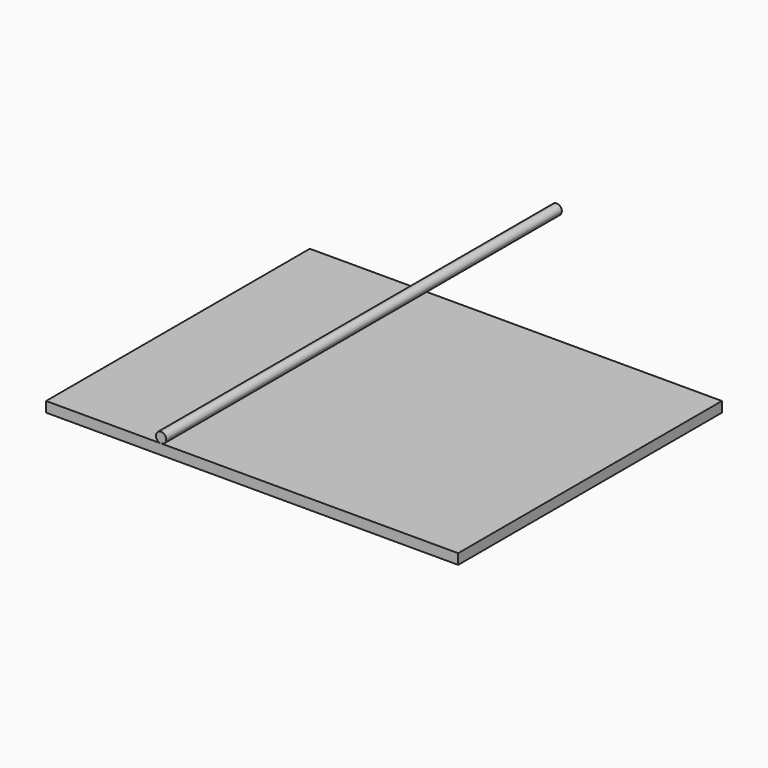
from build123d import *

# Parameters (mm, degrees)
F0_W     = 127
F0_H     = 101.6
F1_DEPTH = 3.175
F3_DEPTH = 152.4


with BuildPart() as f1:
    # F0 (on Top) → F1 (new body)
    with BuildSketch(Plane.XY):
        with Locations((-63.5, 50.8)):
            Rectangle(F0_W, F0_H)
    extrude(amount=F1_DEPTH)


with BuildPart() as f3:
    # F2 (on face) → F3 (new body)
    with BuildSketch(Plane.XZ):
        with BuildLine():
            ThreePointArc((-91.560364, 3.175), (-90.437832, 3.639968), (-89.972864, 4.7625))
            ThreePointArc((-89.972864, 4.7625), (-92.682896, 5.885032), (-91.560364, 3.175))
        make_face()
    extrude(amount=-F3_DEPTH)


solid = Compound([f1.part, f3.part])
